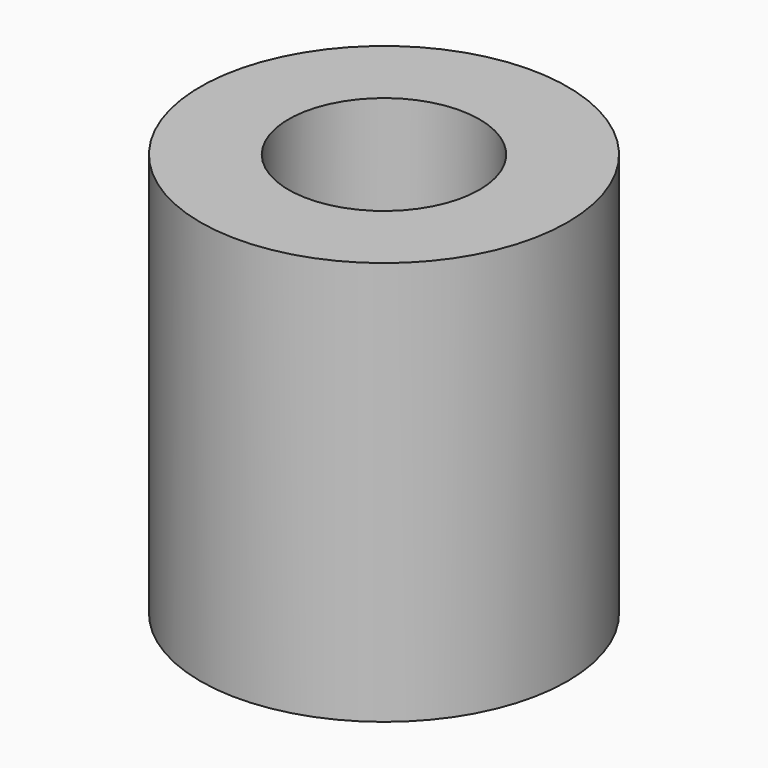
from build123d import *

# Parameters (mm, degrees)
SKETCH_R   = 5
SKETCH_R_2 = 2.6
PAD_DEPTH  = 11


with BuildPart() as part:
    # Sketch → Pad (new body)
    with BuildSketch(Plane.XY):
        Circle(SKETCH_R)
        Circle(SKETCH_R_2, mode=Mode.SUBTRACT)
    extrude(amount=PAD_DEPTH)


solid = part.part
